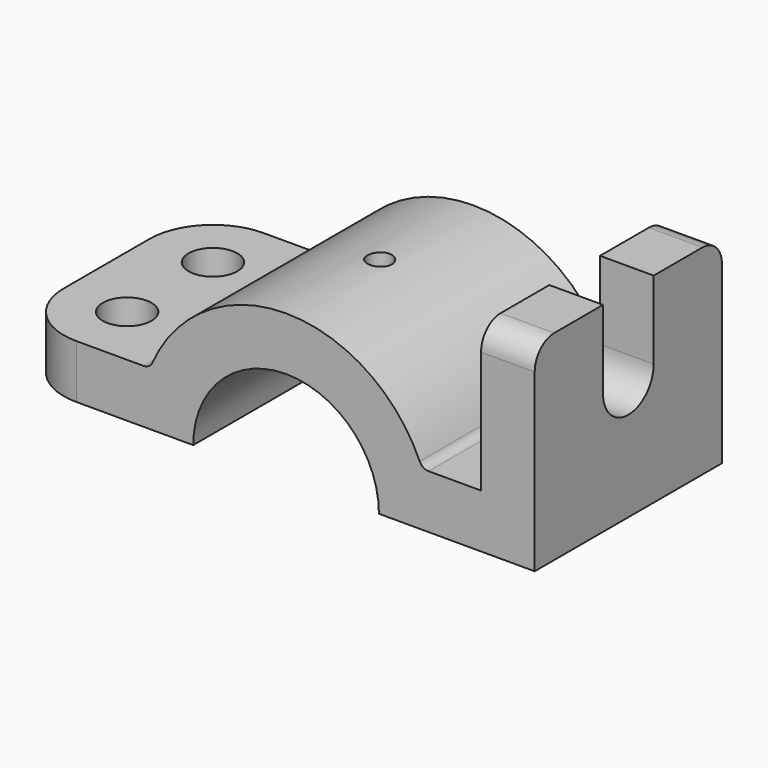
from build123d import *

# Parameters (mm, degrees)
F1_DEPTH  = 1219.2
F2_R      = 330.2
F4_DEPTH  = 279.4
F5_R      = 127
F6_R      = 50.8
F7_R      = 127
F8_DEPTH  = 279.401
F9_R      = 63.5
F10_DEPTH = 889


with BuildPart() as f1:
    # F0 (on Front) → F1 (new body)
    with BuildSketch(Plane.XZ):
        with BuildLine():
            Line((547.37, -139.7), (1358.9, -139.7))
            Line((1358.9, -139.7), (1358.9, 139.7))
            Line((1358.9, 139.7), (1358.9, 901.7))
            Line((1358.9, 901.7), (1079.5, 901.7))
            Line((1079.5, 901.7), (1079.5, 139.7))
            Line((1079.5, 139.7), (772.428515, 139.7))
            ThreePointArc((772.428515, 139.7), (63.5, 622.3), (-645.428515, 139.7))
            Line((-645.428515, 139.7), (-1358.9, 139.7))
            Line((-1358.9, 139.7), (-1358.9, -139.7))
            Line((-1358.9, -139.7), (-420.37, -139.7))
            ThreePointArc((-420.37, -139.7), (63.5, 344.17), (547.37, -139.7))
        make_face()
    extrude(amount=F1_DEPTH)

    # F2
    f2_edges = [f1.edges().sort_by_distance(p)[0] for p in [
        (-1358.9, -1219.2, 0),
        (-1358.9, 0, 0),
    ]]
    fillet(f2_edges, radius=F2_R)

    # F3 (on face) → F4 (cut, through all)
    with BuildSketch(Plane.YZ.offset(1358.9)):
        with BuildLine():
            Line((-774.7, 901.7), (-774.7, 495.3))
            ThreePointArc((-774.7, 495.3), (-609.6, 330.2), (-444.5, 495.3))
            Line((-444.5, 495.3), (-444.5, 901.7))
            Line((-444.5, 901.7), (-774.7, 901.7))
        make_face()
    extrude(amount=-F4_DEPTH, mode=Mode.SUBTRACT)

    # F5
    f5_edges = [f1.edges().sort_by_distance(p)[0] for p in [
        (1219.2, -1219.2, 901.7),
        (1219.2, 0, 901.7),
    ]]
    fillet(f5_edges, radius=F5_R)

    # F6
    f6_edges = [f1.edges().sort_by_distance(p)[0] for p in [
        (772.428515, -609.6, 139.7),
        (-645.428515, -609.6, 139.7),
    ]]
    fillet(f6_edges, radius=F6_R)

    # F7 (on face) → F8 (cut, through all)
    with BuildSketch(Plane.XY.offset(139.7)):
        with Locations((-1028.7, -889)):
            Circle(F7_R)
        with Locations((-1028.7, -330.2)):
            Circle(F7_R)
    extrude(amount=-F8_DEPTH, mode=Mode.SUBTRACT)

    # F9 (on Top) → F10 (cut)
    with BuildSketch(Plane.XY):
        with Locations((63.5, -609.6)):
            Circle(F9_R)
    extrude(amount=F10_DEPTH, mode=Mode.SUBTRACT)


solid = f1.part
